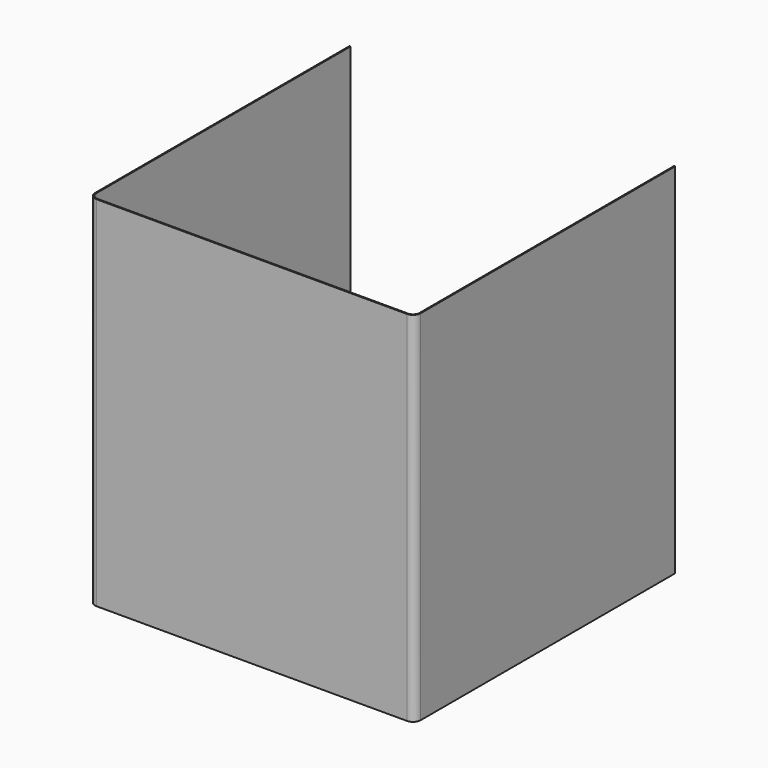
from build123d import *

# Parameters (mm, degrees)
F0_W     = 56.5631985664
F0_H     = 35.8275994658
F1_DEPTH = 330
F2_DEPTH = 300
F3_DEPTH = 300
F4_R     = 7
F5_T     = -1


with BuildPart() as f1:
    # F0 (on Top) → F1 (new body)
    with BuildSketch(Plane.XY):
        with Locations((28.2815992832, 17.9137997329)):
            Rectangle(F0_W, F0_H)
    extrude(amount=F1_DEPTH)

    # F2 (add): a face of the model
    f2_faces = [f1.faces().sort_by_distance(p)[0] for p in [
        (0, 17.9137997329, 165),
    ]]
    extrude(f2_faces, amount=-F2_DEPTH)

    # F3 (add): a face of the model
    f3_faces = [f1.faces().sort_by_distance(p)[0] for p in [
        (150, 0, 165),
    ]]
    extrude(f3_faces, amount=-F3_DEPTH)

    # F4
    f4_edges = [f1.edges().sort_by_distance(p)[0] for p in [
        (0, 0, 165),
        (300, 0, 165),
    ]]
    fillet(f4_edges, radius=F4_R)

    # F5
    f5_openings = [f1.faces().sort_by_distance(p)[0] for p in [
        (150, 150.034694, 330),
        (150, 300, 165),
        (150, 150.034694, 0),
    ]]
    offset(amount=F5_T, openings=f5_openings)


solid = f1.part
